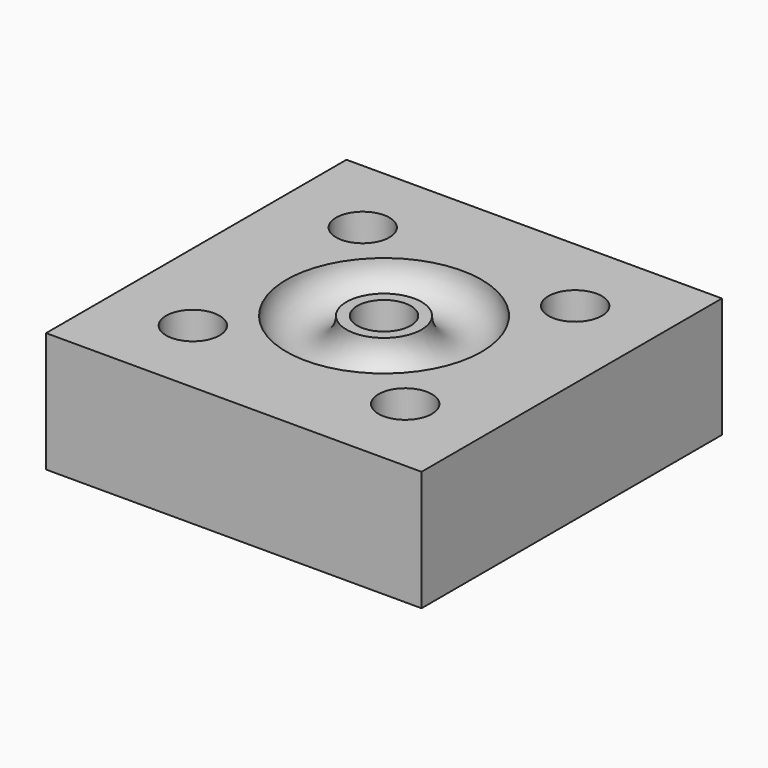
from build123d import *

# Parameters (mm, degrees)
F0_W     = 31.75
F0_H     = 31.75
F1_DEPTH = 10.16
F2_R     = 2.54
F4_R     = 2.2606
F5_DEPTH = 25.4
F7_DEPTH = 3.81


with BuildPart() as f1:
    # F0 (on Top) → F1 (new body)
    with BuildSketch(Plane.XY):
        Rectangle(F0_W, F0_H)
    extrude(amount=F1_DEPTH)

    # F2 (on Front) → F3 (revolve, cut)
    with BuildSketch(Plane.XZ):
        with Locations((5.715, 10.16)):
            Circle(F2_R)
    revolve(axis=Axis((0, 0, 8.061379), (0, 0, -1)), mode=Mode.SUBTRACT)

    # F4 (on face) → F5 (cut)
    with BuildSketch(Plane.XY.offset(10.16)):
        Circle(F4_R)
        with Locations((-8.980256, 8.980256)):
            Circle(F4_R)
        with Locations((8.980256, 8.980256)):
            Circle(F4_R)
        with Locations((-8.980256, -8.980256)):
            Circle(F4_R)
        with Locations((8.980256, -8.980256)):
            Circle(F4_R)
    extrude(amount=-F5_DEPTH, mode=Mode.SUBTRACT)

    # F6 (on face) → F7 (cut)
    with BuildSketch(Plane(origin=(0, 0, 0), x_dir=(1, 0, 0), z_dir=(0, 0, -1))):
        Polygon((-2.4765, -4.289424), (2.4765, -4.289424), (4.953, 0), (2.4765, 4.289424), (-2.4765, 4.289424), (-4.953, 0), align=None)
        Polygon((-11.456756, 4.690832), (-6.503756, 4.690832), (-4.027256, 8.980256), (-6.503756, 13.26968), (-11.456756, 13.26968), (-13.933256, 8.980256), align=None)
        Polygon((11.456756, 13.26968), (6.503756, 13.26968), (4.027256, 8.980256), (6.503756, 4.690832), (11.456756, 4.690832), (13.933256, 8.980256), align=None)
        Polygon((4.027256, -8.980256), (6.503756, -13.26968), (11.456756, -13.26968), (13.933256, -8.980256), (11.456756, -4.690832), (6.503756, -4.690832), align=None)
        Polygon((-4.027256, -8.980256), (-6.503756, -4.690832), (-11.456756, -4.690832), (-13.933256, -8.980256), (-11.456756, -13.26968), (-6.503756, -13.26968), align=None)
    extrude(amount=-F7_DEPTH, mode=Mode.SUBTRACT)


solid = f1.part
